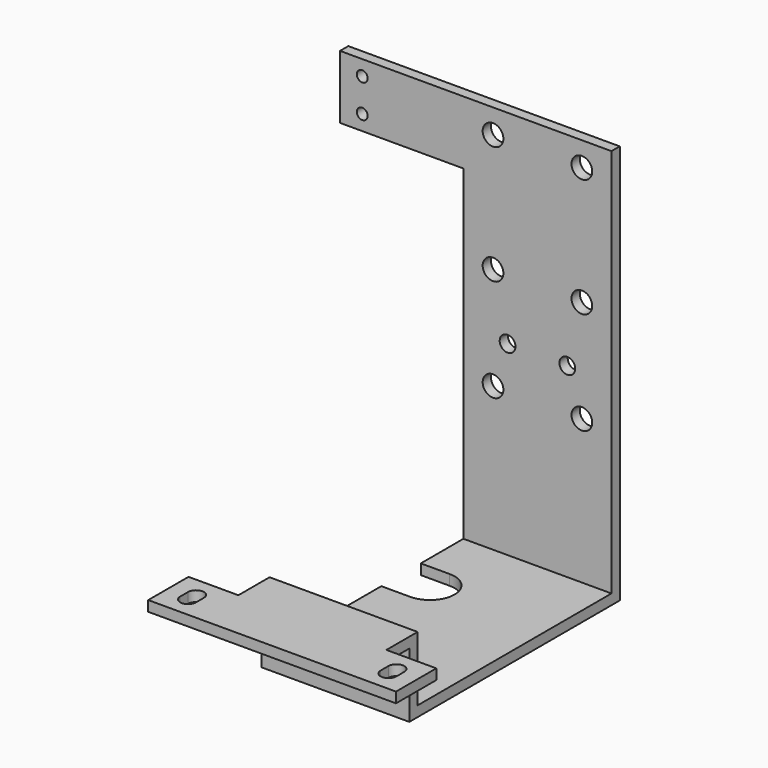
from build123d import *

# Parameters (mm, degrees)
F0_W      = 30
F0_H      = 81
F1_DEPTH  = 2.1
F2_W      = 30
F2_H      = 2.1
F3_DEPTH  = 51.2
F4_W      = 30
F4_H      = 2.1
F5_DEPTH  = 13.1
F6_W      = 30
F6_H      = 2.1
F7_DEPTH  = 16
F8_W      = 10.1
F8_H      = 10.2
F9_DEPTH  = 2.1
F11_DEPTH = 15.201
F13_DEPTH = 2.101
F14_R     = 2.1
F14_R_2   = 1.6
F15_DEPTH = 2.101
F16_W     = 2.1
F16_H     = 12.85
F17_DEPTH = 25
F18_R     = 1.1
F19_DEPTH = 25


with BuildPart() as f1:
    # F0 (on Front) → F1 (new body)
    with BuildSketch(Plane.XZ):
        Rectangle(F0_W, F0_H)
    extrude(amount=F1_DEPTH)

    # F2 (on face) → F3 (join)
    with BuildSketch(Plane.XZ.offset(2.1)):
        with Locations((0, -39.45)):
            Rectangle(F2_W, F2_H)
    extrude(amount=F3_DEPTH)

    # F4 (on face) → F5 (join)
    with BuildSketch(Plane.XY.offset(-38.4)):
        with Locations((0, -52.25)):
            Rectangle(F4_W, F4_H)
    extrude(amount=F5_DEPTH)

    # F6 (on face) → F7 (join)
    with BuildSketch(Plane.XZ.offset(53.3)):
        with Locations((0, -26.35)):
            Rectangle(F6_W, F6_H)
    extrude(amount=F7_DEPTH)

    # F8 (on face) → F9 (join)
    with BuildSketch(Plane.XY.offset(-25.3)):
        with Locations((-20.05, -64.2)):
            Rectangle(F8_W, F8_H)
        with Locations((20.05, -64.2)):
            Rectangle(F8_W, F8_H)
    extrude(amount=-F9_DEPTH)

    # F10 (on face) → F11 (cut, through all)
    with BuildSketch(Plane.XY.offset(-25.3)):
        with BuildLine():
            Line((-21.9, -63.2), (-21.9, -65.2))
            ThreePointArc((-21.9, -65.2), (-20.3, -66.8), (-18.7, -65.2))
            Line((-18.7, -65.2), (-18.7, -63.2))
            ThreePointArc((-18.7, -63.2), (-20.3, -61.6), (-21.9, -63.2))
        make_face()
        with BuildLine():
            Line((18.7, -63.2), (18.7, -65.2))
            ThreePointArc((18.7, -65.2), (20.3, -66.8), (21.9, -65.2))
            Line((21.9, -65.2), (21.9, -63.2))
            ThreePointArc((21.9, -63.2), (20.3, -61.6), (18.7, -63.2))
        make_face()
    extrude(amount=-F11_DEPTH, mode=Mode.SUBTRACT)

    # F12 (on face) → F13 (cut, through all)
    with BuildSketch(Plane.XY.offset(-38.4)):
        with BuildLine():
            Line((-15, -22.894339), (-9.15, -22.894339))
            ThreePointArc((-9.15, -22.894339), (-4.15, -17.894339), (-9.15, -12.894339))
            Line((-9.15, -12.894339), (-15, -12.894339))
            Line((-15, -12.894339), (-15, -22.894339))
        make_face()
    extrude(amount=-F13_DEPTH, mode=Mode.SUBTRACT)

    # F14 (on face) → F15 (cut, through all)
    with BuildSketch(Plane.XZ.offset(2.1)):
        with Locations((9, 35.6)):
            Circle(F14_R)
        with Locations((9, 11.6)):
            Circle(F14_R)
        with Locations((-9, 35.6)):
            Circle(F14_R)
        with Locations((-9, 11.6)):
            Circle(F14_R)
        with Locations((9, -9.2)):
            Circle(F14_R)
        with Locations((-9, -9.2)):
            Circle(F14_R)
        with Locations((6.05, -0.7)):
            Circle(F14_R_2)
        with Locations((-6.05, -0.7)):
            Circle(F14_R_2)
    extrude(amount=-F15_DEPTH, mode=Mode.SUBTRACT)

    # F16 (on face) → F17 (join)
    with BuildSketch(Plane(origin=(-15, 0, 0), x_dir=(0, -1, 0), z_dir=(-1, 0, 0))):
        with Locations((1.05, 34.075)):
            Rectangle(F16_W, F16_H)
    extrude(amount=F17_DEPTH)

    # F18 (on face) → F19 (cut)
    with BuildSketch(Plane.XZ.offset(2.1)):
        with Locations((-35.5, 37.425)):
            Circle(F18_R)
        with Locations((-35.5, 30.725)):
            Circle(F18_R)
    extrude(amount=-F19_DEPTH, mode=Mode.SUBTRACT)


solid = f1.part
